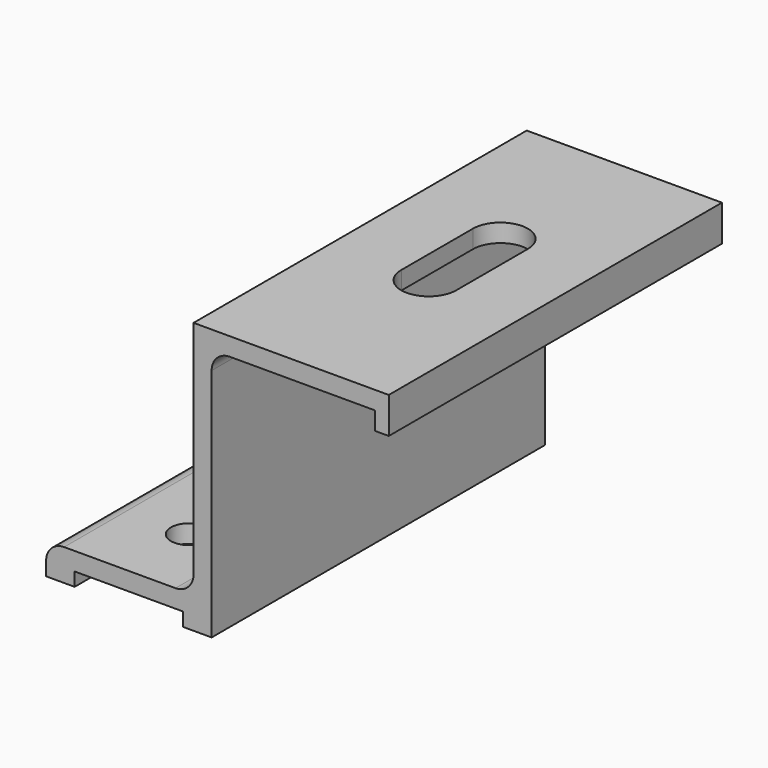
from build123d import *

# Parameters (mm, degrees)
F1_DEPTH = 73.152
F3_D     = 6.5278
F5_DEPTH = 47.626
F6_R     = 3.175


with BuildPart() as f1:
    # F0 (on Front) → F1 (new body)
    with BuildSketch(Plane.XZ):
        Polygon((32.5217237333, 11.9879317781), (32.5217237333, 15.1629317781), (-1.7682762667, 15.1629317781), (-1.7682762667, -26.9058182219), (-27.6762762667, -26.9058182219), (-27.6762762667, -32.4620682219), (-22.6597762667, -32.4620682219), (-22.6597762667, -30.0808182219), (-3.6097762667, -30.0808182219), (-3.6097762667, -32.4620682219), (1.4067237333, -32.4620682219), (1.4067237333, 11.9879317781), (30.1404737333, 11.9879317781), (30.1404737333, 8.8129317781), (32.5217237333, 8.8129317781), align=None)
    extrude(amount=F1_DEPTH)

    # F3 (through all)
    with Locations(Plane(origin=(0, 0, -30.0808182219), x_dir=(1, 0, 0), z_dir=(0, 0, -1))):
        with Locations((-13.4522762667, 13.716), (-13.4522762667, 36.576), (-13.4522762667, 59.436)):
            Hole(F3_D / 2)

    # F4 (on face) → F5 (cut, through all)
    with BuildSketch(Plane.XY.offset(15.1629317781)):
        with BuildLine():
            ThreePointArc((20.3297237333, -27.3588467389), (15.5037237333, -22.5328467389), (10.6777237333, -27.3588467389))
            Line((10.6777237333, -27.3588467389), (10.6777237333, -43.1068467389))
            ThreePointArc((10.6777237333, -43.1068467389), (15.5037237333, -47.9328467389), (20.3297237333, -43.1068467389))
            Line((20.3297237333, -43.1068467389), (20.3297237333, -27.3588467389))
        make_face()
    extrude(amount=-F5_DEPTH, mode=Mode.SUBTRACT)

    # F6
    f6_edges = [f1.edges().sort_by_distance(p)[0] for p in [
        (-1.768276, -36.576, -26.905818),
        (1.406724, -36.576, 11.987932),
        (-27.676276, -36.576, -26.905818),
    ]]
    fillet(f6_edges, radius=F6_R)


solid = f1.part
